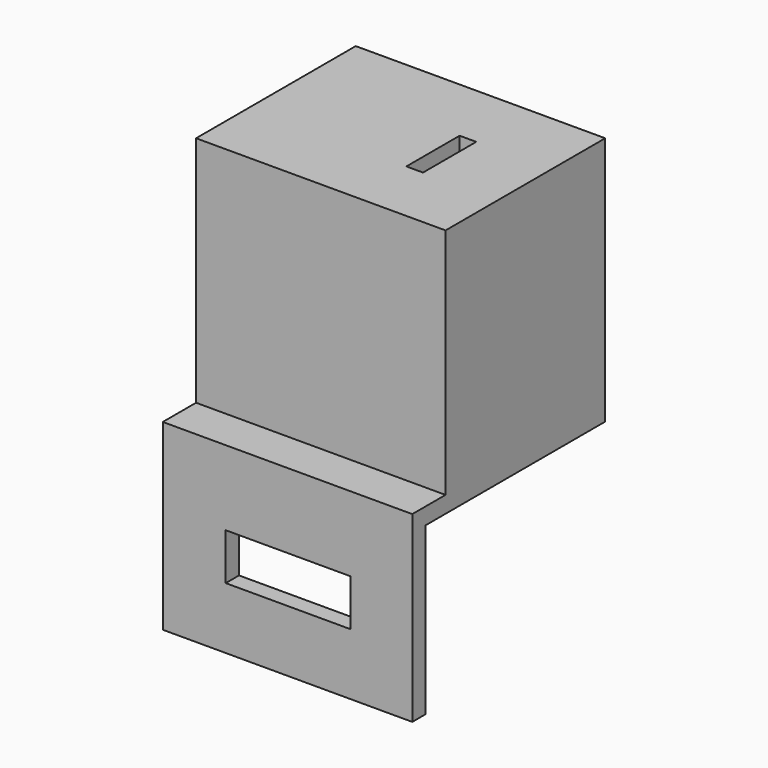
from build123d import *

# Parameters (mm, degrees)
F0_W      = 33.02
F0_H      = 25.4
F1_DEPTH  = 5.08
F2_R      = 9.144
F3_DEPTH  = 5.081
F4_W      = 38.1
F4_H      = 35.56
F5_DEPTH  = 2.54
F6_W      = 38.1
F6_H      = 35.56
F7_DEPTH  = 2.54
F9_DEPTH  = 25.4
F10_W     = 35.56
F10_H     = 25.4
F10_W_2   = 2.54
F10_H_2   = 10.16
F11_DEPTH = 2.54
F12_W     = 38.1
F12_H     = 2.54
F13_DEPTH = 6.35
F14_W     = 38.1
F14_H     = 2.54
F15_DEPTH = 25.4
F16_W     = 19.05
F16_H     = 7.112
F17_DEPTH = 25.4


with BuildPart() as f1:
    # F0 (on Top) → F1 (new body)
    with BuildSketch(Plane.XY):
        with Locations((16.51, 12.7)):
            Rectangle(F0_W, F0_H)
    extrude(amount=F1_DEPTH)

    # F2 (on face) → F3 (cut, through all)
    with BuildSketch(Plane.XY.offset(5.08)):
        with Locations((16.51, 12.7)):
            Circle(F2_R)
    extrude(amount=-F3_DEPTH, mode=Mode.SUBTRACT)

    # F4 (on Front) → F5 (join)
    with BuildSketch(Plane.XZ):
        with Locations((16.51, 17.78)):
            Rectangle(F4_W, F4_H)
    extrude(amount=F5_DEPTH)

    # F6 (on face) → F7 (join)
    with BuildSketch(Plane(origin=(0, 25.4, 0), x_dir=(-1, 0, 0), z_dir=(0, 1, 0))):
        with Locations((-16.51, 17.78)):
            Rectangle(F6_W, F6_H)
    extrude(amount=F7_DEPTH)

    # F8 (on face) → F9 (join, through all)
    with BuildSketch(Plane.XZ.offset(-25.4)):
        Polygon((35.56, 0), (35.56, 35.56), (33.02, 35.56), (33.02, 5.08), (33.02, 0), align=None)
    extrude(amount=F9_DEPTH)

    # F10 (on face) → F11 (join)
    with BuildSketch(Plane.XY.offset(35.56)):
        with Locations((15.24, 12.7)):
            Rectangle(F10_W, F10_H)
        with Locations((22.86, 12.5249423701)):
            Rectangle(F10_W_2, F10_H_2, mode=Mode.SUBTRACT)
        Polygon((35.56, -2.54), (35.56, 27.94), (-2.54, 27.94), (-2.54, 25.4), (33.02, 25.4), (33.02, 0), (-2.54, 0), (-2.54, -2.54), align=None)
    extrude(amount=F11_DEPTH)

    # F12 (on face) → F13 (join)
    with BuildSketch(Plane.XZ.offset(2.54)):
        with Locations((16.51, 1.27)):
            Rectangle(F12_W, F12_H)
    extrude(amount=F13_DEPTH)

    # F14 (on face) → F15 (join)
    with BuildSketch(Plane(origin=(0, 0, 0), x_dir=(1, 0, 0), z_dir=(0, 0, -1))):
        with Locations((16.51, 7.62)):
            Rectangle(F14_W, F14_H)
    extrude(amount=F15_DEPTH)

    # F16 (on face) → F17 (cut)
    with BuildSketch(Plane.XZ.offset(8.89)):
        with Locations((16.5958222933, -12.446)):
            Rectangle(F16_W, F16_H)
    extrude(amount=-F17_DEPTH, mode=Mode.SUBTRACT)


solid = f1.part
